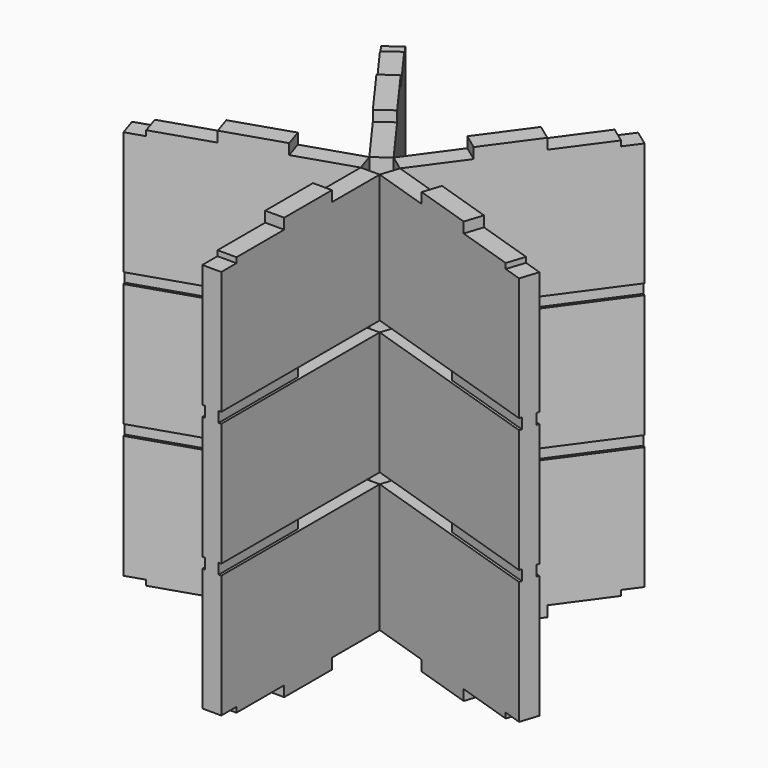
from build123d import *

# Parameters (mm, degrees)
SKETCH004_W     = 18
SKETCH004_H     = 169.6125627158
PAD003_DEPTH    = 5
SKETCH005_W     = 18
SKETCH005_H     = 56.5375209053
PAD004_DEPTH    = 10
PAD005_DEPTH    = 18
SKETCH007_W     = 93.8062813579
SKETCH007_H     = 10
POCKET_DEPTH    = 2.5
SKETCH008_W     = 93.8062813579
SKETCH008_H     = 10
POCKET001_DEPTH = 2.5
ARRAY001_COUNT  = 5


with BuildPart() as array001:
    # Sketch004 → Pad003 (new body)
    with BuildSketch(Plane.XY):
        with Locations((0, -97.1937186421)):
            Rectangle(SKETCH004_W, SKETCH004_H)
    extrude(amount=PAD003_DEPTH)

    # Sketch005 (on Face5 of Pad003) → Pad004 (join)
    with BuildSketch(Plane(origin=(0, 0, 0), x_dir=(1, 0, 0), z_dir=(0, 0, -1))):
        with Locations((0, 97.1937186421)):
            Rectangle(SKETCH005_W, SKETCH005_H)
    extrude(amount=PAD004_DEPTH)

    # Sketch006 (on Face9 of Pad004) → Pad005 (join)
    with BuildSketch(Plane.YZ.offset(9)):
        Polygon((-12.3874372842, 0), (-68.9249581895, 0), (-68.9249581895, -10), (-125.4624790947, -10), (-125.4624790947, 0), (-182, 0), (-182, 5), (-200, 5), (-200, 375), (-182, 375), (-182, 380), (-125.4624790947, 380), (-125.4624790947, 390), (-68.9249581895, 390), (-68.9249581895, 380), (-12.3874372842, 380), (-12.3874372842, 375), (-12.3874372842, 258.3333333333), (-106.1937186421, 258.3333333333), (-106.1937186421, 248.3333333333), (-12.3874372842, 248.3333333333), (-12.3874372842, 131.6666666667), (-106.1937186421, 131.6666666667), (-106.1937186421, 121.6666666667), (-12.3874372842, 121.6666666667), (-12.3874372842, 5), align=None)
    extrude(amount=-PAD005_DEPTH)

    # Sketch007 (on Face11 of Pad005) → Pocket (cut)
    with BuildSketch(Plane.YZ.offset(9)):
        with Locations((-153.0968593211, 253.3333333333)):
            Rectangle(SKETCH007_W, SKETCH007_H)
        with Locations((-153.0968593211, 126.6666666667)):
            Rectangle(SKETCH007_W, SKETCH007_H)
    extrude(amount=-POCKET_DEPTH, mode=Mode.SUBTRACT)

    # Sketch008 (on Face9 of Pocket) → Pocket001 (cut)
    with BuildSketch(Plane(origin=(-9, 0, 0), x_dir=(0, -1, 0), z_dir=(-1, 0, 0))):
        with Locations((153.0968593211, 126.6666666667)):
            Rectangle(SKETCH008_W, SKETCH008_H)
        with Locations((153.0968593211, 253.3333333333)):
            Rectangle(SKETCH008_W, SKETCH008_H)
    extrude(amount=-POCKET001_DEPTH, mode=Mode.SUBTRACT)


with BuildPart() as array001_1:
    # Body004 placement: moved
    add(array001.part.moved(Location((0, 0, 13))))


with BuildPart() as array001_copy1:
    # Array001: instance of Array001
    add(array001_1.part.rotate(Axis((0, 0, 0), (0, 0, 1)), 1 * 360 / ARRAY001_COUNT))


with BuildPart() as array001_copy2:
    # Array001: instance of Array001
    add(array001_1.part.rotate(Axis((0, 0, 0), (0, 0, 1)), 2 * 360 / ARRAY001_COUNT))


with BuildPart() as array001_copy3:
    # Array001: instance of Array001
    add(array001_1.part.rotate(Axis((0, 0, 0), (0, 0, 1)), 3 * 360 / ARRAY001_COUNT))


with BuildPart() as array001_copy4:
    # Array001: instance of Array001
    add(array001_1.part.rotate(Axis((0, 0, 0), (0, 0, 1)), 4 * 360 / ARRAY001_COUNT))


solid = Compound([array001_1.part, array001_copy1.part, array001_copy2.part, array001_copy3.part, array001_copy4.part])
